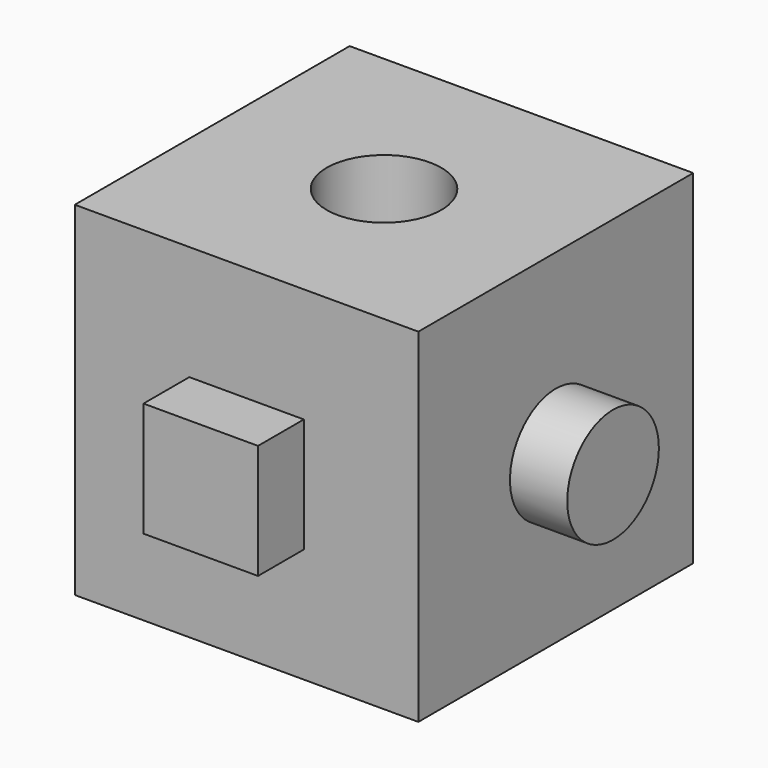
from build123d import *

# Parameters (mm, degrees)
F1_DEPTH = 76.2
F2_W     = 25.4
F2_H     = 25.4
F3_DEPTH = 12.7
F4_R     = 12.7
F5_DEPTH = 12.7
F7_D     = 25.4


with BuildPart() as f1:
    # F0 (on Front) → F1 (new body)
    with BuildSketch(Plane.XZ):
        Polygon((-70.789909, 90.538534), (-70.789909, 14.338534), (5.410091, 14.338534), (5.410091, 90.538534), (-11.810248, 90.538534), (-32.689909, 90.538534), align=None)
    extrude(amount=F1_DEPTH)

    # F2 (on face) → F3 (join)
    with BuildSketch(Plane.XZ.offset(76.2)):
        with Locations((-32.689909, 52.438534)):
            Rectangle(F2_W, F2_H)
    extrude(amount=F3_DEPTH)

    # F4 (on face) → F5 (join)
    with BuildSketch(Plane.YZ.offset(5.410091)):
        with Locations((-38.1, 51.235449)):
            Circle(F4_R)
    extrude(amount=F5_DEPTH)

    # F7 (through all)
    with Locations(Plane.XY.offset(90.538534)):
        with Locations((-32.689909, -38.1)):
            Hole(F7_D / 2)


solid = f1.part
